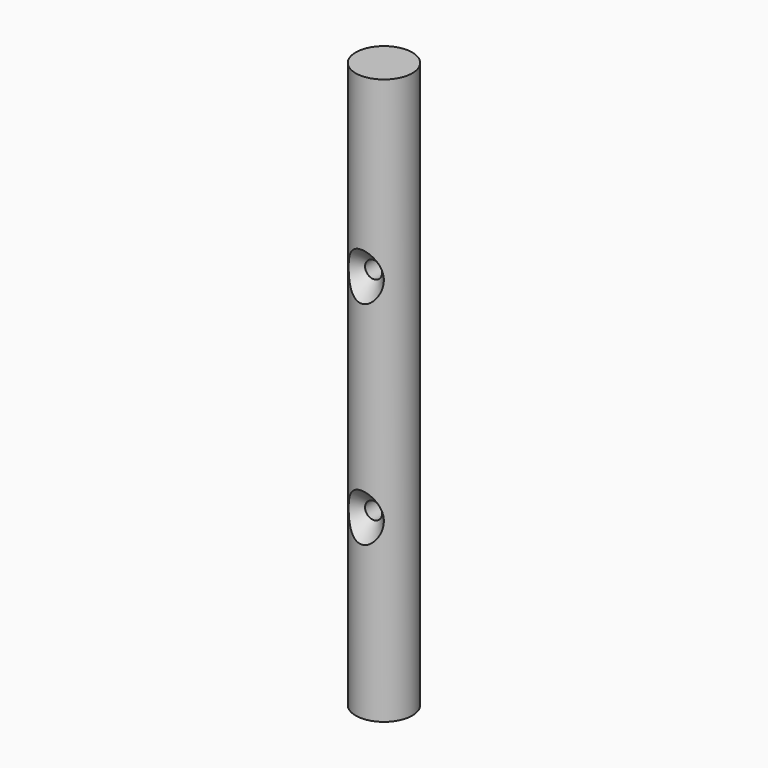
from build123d import *

# Parameters (mm, degrees)
F0_R           = 4
F1_DEPTH       = 80
F4_D           = 2.4
F4_DEPTH       = 50
F4_CSINK_D     = 6.72
F4_CSINK_ANGLE = 90
F4_TIP         = 0.7210327428
F5_ANGLE       = 180


with BuildPart() as f1:
    # F0 (on Top) → F1 (new body)
    with BuildSketch(Plane.XY):
        Circle(F0_R)
    extrude(amount=F1_DEPTH)

    # F4
    with Locations(Plane(origin=(0, 4, 0), x_dir=(1, 0, 0), z_dir=(0, 1, 0))):
        with Locations((0, -55), (0, -25)):
            CounterSinkHole(F4_D / 2, F4_CSINK_D / 2, depth=F4_DEPTH, counter_sink_angle=F4_CSINK_ANGLE)
            with Locations((0, 0, -(F4_DEPTH + F4_TIP / 2))):  # 118° drill point
                Cone(0, F4_D / 2, F4_TIP, mode=Mode.SUBTRACT)


with BuildPart() as f1_1:
    # F5: moved
    add(f1.part.rotate(Axis((0, 0, 80), (0, 0, 1)), F5_ANGLE))


solid = f1_1.part
